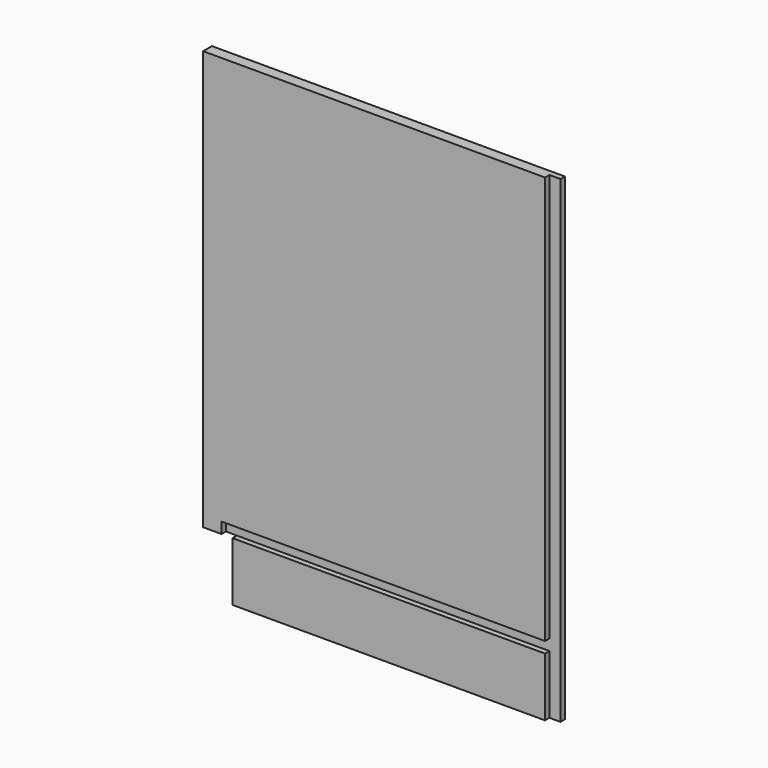
from build123d import *

# Parameters (mm, degrees)
F1_DEPTH = 19.05
F3_DEPTH = 9.525


with BuildPart() as f1:
    # F0 (on Front) → F1 (new body)
    with BuildSketch(Plane.XZ):
        Polygon((-558.8, 0), (0, 0), (0, 825.5), (-609.6, 825.5), (-609.6, 101.6), (-558.8, 101.6), align=None)
    extrude(amount=F1_DEPTH)

    # F2 (on face) → F3 (cut)
    with BuildSketch(Plane.XZ.offset(19.05)):
        Polygon((0, 825.5), (-19.05, 825.5), (-19.05, 120.65), (-577.85, 120.65), (-577.85, 101.6), (-558.8, 101.6), (-19.05, 101.6), (-19.05, 0), (0, 0), align=None)
    extrude(amount=-F3_DEPTH, mode=Mode.SUBTRACT)


solid = f1.part
